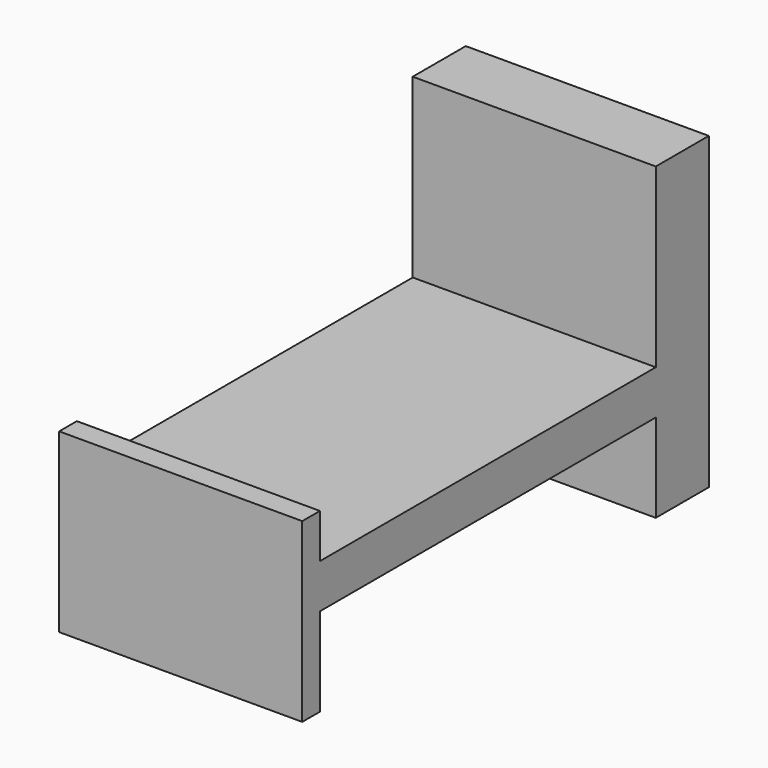
from build123d import *

# Parameters (mm, degrees)
F0_W     = 1900
F0_H     = 200
F1_DEPTH = 550


with BuildPart() as f1:
    # F0 (on Right) → F1 (new body, symmetric)
    with BuildSketch(Plane.YZ):
        Polygon((-300, 0), (0, 0), (0, 1400), (-300, 1400), (-300, 600), (-300, 400), align=None)
        with Locations((-1250, 500)):
            Rectangle(F0_W, F0_H)
        Polygon((-2200, 0), (-2200, 400), (-2200, 600), (-2200, 800), (-2300, 800), (-2300, 0), align=None)
    extrude(amount=F1_DEPTH, both=True)


solid = f1.part
